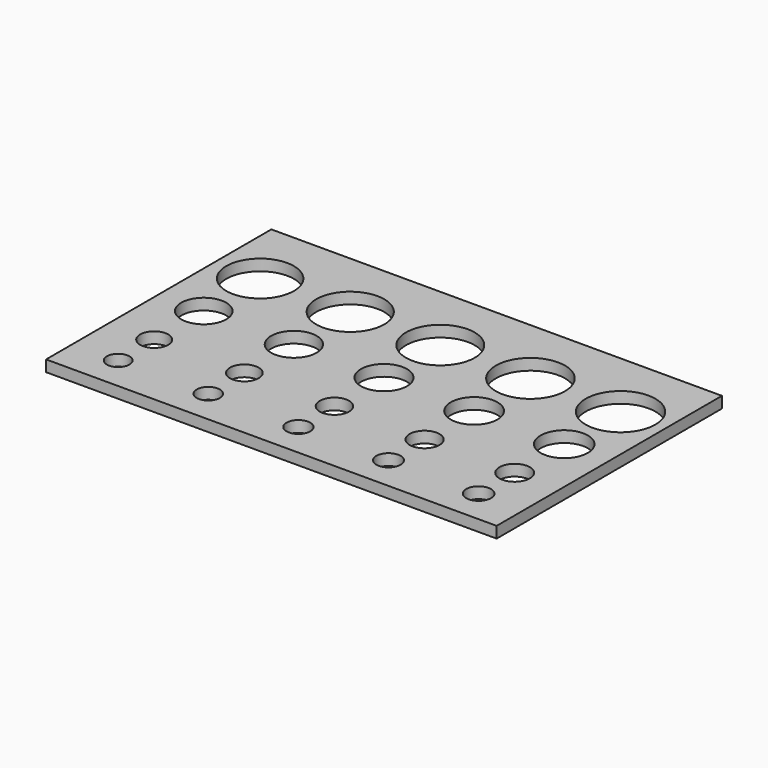
from build123d import *

# Parameters (mm, degrees)
F0_W     = 80
F0_H     = 50
F0_R     = 2
F0_R_2   = 2.05
F0_R_3   = 2.5
F0_R_4   = 2.55
F0_R_5   = 2.1
F0_R_6   = 2.15
F0_R_7   = 2.2
F0_R_8   = 2.6
F0_R_9   = 2.65
F0_R_10  = 2.7
F0_R_11  = 4
F0_R_12  = 4.05
F0_R_13  = 6
F0_R_14  = 6.05
F0_R_15  = 4.1
F0_R_16  = 4.15
F0_R_17  = 4.2
F0_R_18  = 6.1
F0_R_19  = 6.15
F0_R_20  = 6.2
F1_DEPTH = 2


with BuildPart() as f1:
    # F0 (on Top) → F1 (new body)
    with BuildSketch(Plane.XY):
        Rectangle(F0_W, F0_H)
        with Locations((-32, -19)):
            Circle(F0_R, mode=Mode.SUBTRACT)
        with Locations((-16, -19)):
            Circle(F0_R_2, mode=Mode.SUBTRACT)
        with Locations((-32, -11)):
            Circle(F0_R_3, mode=Mode.SUBTRACT)
        with Locations((-16, -11)):
            Circle(F0_R_4, mode=Mode.SUBTRACT)
        with Locations((0, -19)):
            Circle(F0_R_5, mode=Mode.SUBTRACT)
        with Locations((16, -19)):
            Circle(F0_R_6, mode=Mode.SUBTRACT)
        with Locations((32, -19)):
            Circle(F0_R_7, mode=Mode.SUBTRACT)
        with Locations((0, -11)):
            Circle(F0_R_8, mode=Mode.SUBTRACT)
        with Locations((16, -11)):
            Circle(F0_R_9, mode=Mode.SUBTRACT)
        with Locations((32, -11)):
            Circle(F0_R_10, mode=Mode.SUBTRACT)
        with Locations((-32, 0)):
            Circle(F0_R_11, mode=Mode.SUBTRACT)
        with Locations((-16, 0)):
            Circle(F0_R_12, mode=Mode.SUBTRACT)
        with Locations((-32, 12.5)):
            Circle(F0_R_13, mode=Mode.SUBTRACT)
        with Locations((-16, 12.5)):
            Circle(F0_R_14, mode=Mode.SUBTRACT)
        Circle(F0_R_15, mode=Mode.SUBTRACT)
        with Locations((16, 0)):
            Circle(F0_R_16, mode=Mode.SUBTRACT)
        with Locations((32, 0)):
            Circle(F0_R_17, mode=Mode.SUBTRACT)
        with Locations((0, 12.5)):
            Circle(F0_R_18, mode=Mode.SUBTRACT)
        with Locations((16, 12.5)):
            Circle(F0_R_19, mode=Mode.SUBTRACT)
        with Locations((32, 12.5)):
            Circle(F0_R_20, mode=Mode.SUBTRACT)
    extrude(amount=F1_DEPTH)


solid = f1.part
